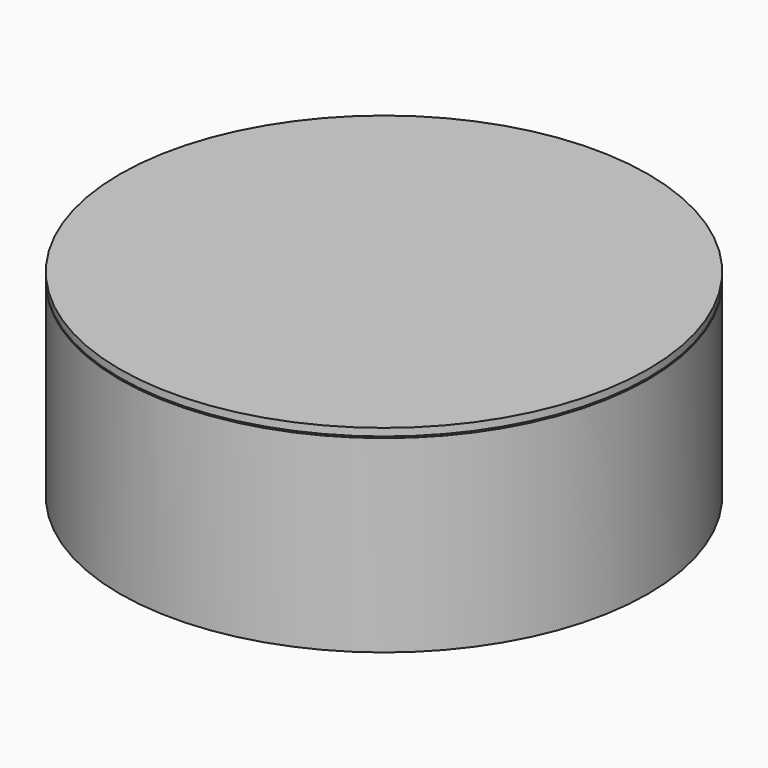
from build123d import *

# Parameters (mm, degrees)
F0_R     = 35
F0_R_2   = 34
F1_DEPTH = 25


with BuildPart() as f1:
    # F0 (on Top) → F1 (new body)
    with BuildSketch(Plane.XY):
        Circle(F0_R)
        Circle(F0_R_2, mode=Mode.SUBTRACT)
    extrude(amount=F1_DEPTH)


with BuildPart() as f3:
    # F2 (on Front) → F3 (revolve)
    with BuildSketch(Plane.XZ):
        Polygon((-35, 26.2), (-35, 25.2), (-33.8, 25.2), (-33.8, 24.2), (0, 24.2), (0, 26.2), align=None)
    revolve(axis=Axis((0, 0, 25.2), (0, 0, 1)))


solid = Compound([f1.part, f3.part])
